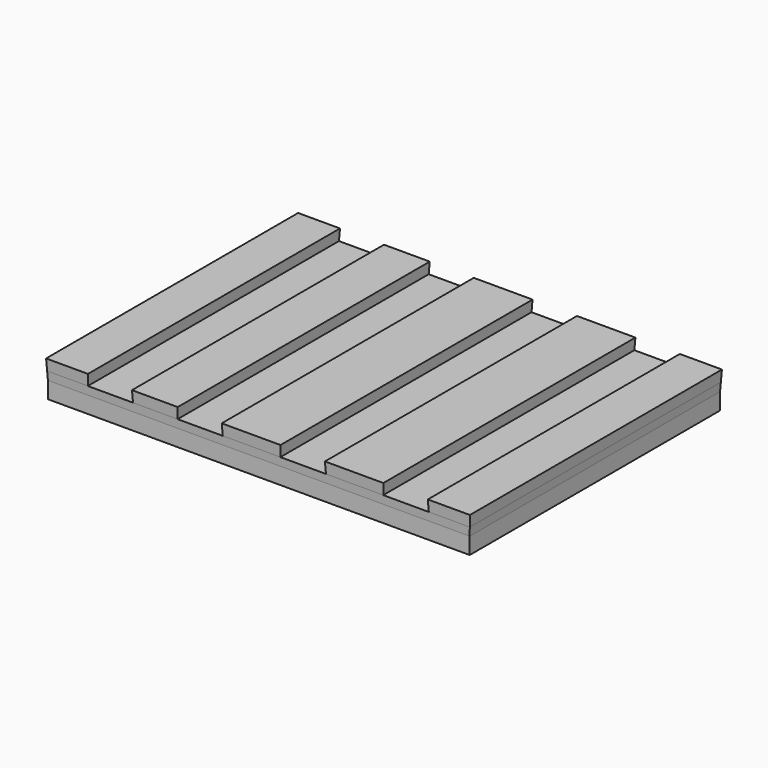
from build123d import *

# Parameters (mm, degrees)
F0_W      = 76.1363953352
F0_H      = 56.5012171865
F1_DEPTH  = 3
F2_W      = 76.1363953352
F2_H      = 56.5012171865
F3_DEPTH  = 1.5
F3_TAPER  = -3
F4_W      = 76.293618673
F4_H      = 56.6584405243
F5_DEPTH  = 2
F5_TAPER  = -3
F6_W      = 7.9422779381
F6_H      = 56.8680716414
F7_DEPTH  = 2
F7_TAPER  = -3
F8_W      = 7.9422742128
F8_H      = 56.8680716414
F9_DEPTH  = 2
F9_TAPER  = -3
F10_W     = 8.0143567175
F10_H     = 56.8680716414
F11_DEPTH = 2
F11_TAPER = -3
F12_W     = 8.0169183202
F12_H     = 56.8680716414
F13_DEPTH = 2
F13_TAPER = -3


with BuildPart() as f1:
    # F0 (on Top) → F1 (new body)
    with BuildSketch(Plane.XY):
        with Locations((-38.0681976676, 28.2506085932)):
            Rectangle(F0_W, F0_H)
    extrude(amount=F1_DEPTH)


with BuildPart() as f3:
    # F2 (on face) → F3 (new body)
    with BuildSketch(Plane.XY.offset(3)):
        with Locations((-38.0681976676, 28.2506085932)):
            Rectangle(F2_W, F2_H)
    extrude(amount=F3_DEPTH, taper=F3_TAPER)


with BuildPart() as f5:
    # F4 (on face) → F5 (new body)
    with BuildSketch(Plane.XY.offset(4.5)):
        with Locations((-38.0681976676, 28.2506085932)):
            Rectangle(F4_W, F4_H)
    extrude(amount=F5_DEPTH, taper=F5_TAPER)

    # F6 (on face) → F7 (cut)
    with BuildSketch(Plane.XY.offset(6.5)):
        with Locations((-64.788883552, 28.2506085932)):
            Rectangle(F6_W, F6_H)
    extrude(amount=-F7_DEPTH, taper=F7_TAPER, mode=Mode.SUBTRACT)

    # F8 (on face) → F9 (cut)
    with BuildSketch(Plane.XY.offset(6.5)):
        with Locations((-48.586640507, 28.2506085932)):
            Rectangle(F8_W, F8_H)
    extrude(amount=-F9_DEPTH, taper=F9_TAPER, mode=Mode.SUBTRACT)

    # F10 (on face) → F11 (cut)
    with BuildSketch(Plane.XY.offset(6.5)):
        with Locations((-29.9924211577, 28.2506085932)):
            Rectangle(F10_W, F10_H)
    extrude(amount=-F11_DEPTH, taper=F11_TAPER, mode=Mode.SUBTRACT)

    # F12 (on face) → F13 (cut)
    with BuildSketch(Plane.XY.offset(6.5)):
        with Locations((-11.4268527832, 28.2506085932)):
            Rectangle(F12_W, F12_H)
    extrude(amount=-F13_DEPTH, taper=F13_TAPER, mode=Mode.SUBTRACT)


solid = Compound([f1.part, f3.part, f5.part])
